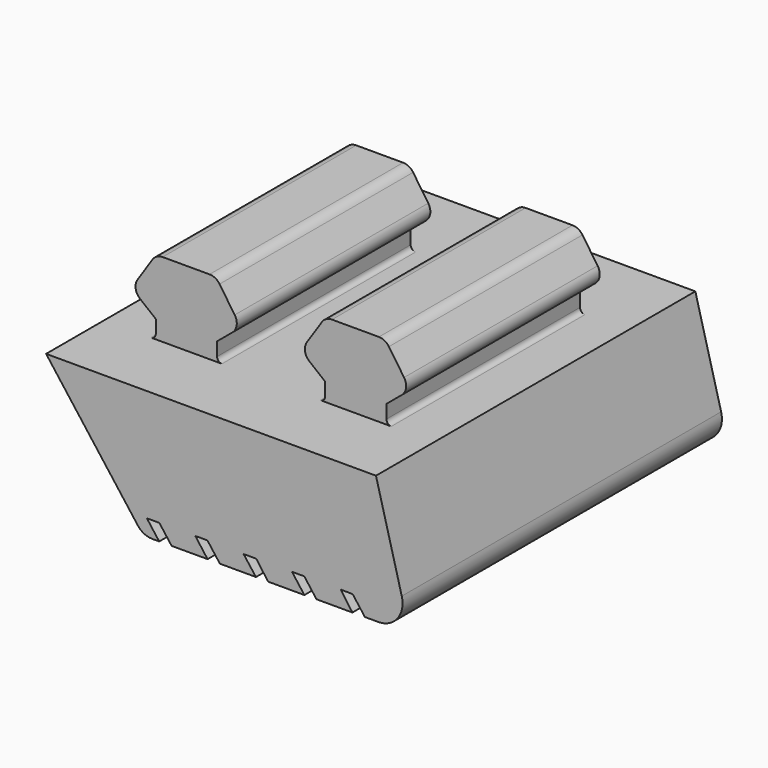
from build123d import *

# Parameters (mm, degrees)
PAD017_DEPTH = 20
PAD015_DEPTH = 33
PAD016_DEPTH = 20
FILLET010_R  = 1
FILLET011_R  = 0.4
FILLET012_R  = 1.5
FILLET013_R  = 2


with BuildPart() as pad017:
    # Sketch021 → Pad017 (new body)
    with BuildSketch(Plane(origin=(10, -7, 0.4), x_dir=(1, 0, 0), z_dir=(0, -1, 0))):
        Polygon((12.921668, -76.043343), (12.921668, -72.681298), (10.907037, -71.064545), (12.949577, -67.987406), (17.894252, -67.987406), (19.953335, -71.012405), (17.993304, -72.648705), (17.981073, -76.043343), align=None)
    extrude(amount=PAD017_DEPTH)


with BuildPart() as pad015:
    # Sketch019 → Pad015 (new body)
    with BuildSketch(Plane.XZ):
        Polygon((31.922119, -73.764191), (34.715668, -84.347412), (31.00419, -84.347412), (29.994871, -83.010223), (29.004835, -82.997353), (29.97435, -84.356453), (27.001257, -84.356453), (25.99424, -83.013763), (24.977634, -83.013763), (26.003832, -84.375633), (23.007538, -84.375633), (22.019703, -83.023636), (20.974325, -83.023636), (22.000523, -84.366325), (19.017838, -84.366325), (17.99164, -83.004456), (16.984625, -83.004456), (18.00123, -84.366325), (15.032244, -84.366325), (14.013124, -83.020378), (12.982291, -83.020378), (14.00141, -84.379204), (12.681671, -84.379204), (4.650895, -73.764191), align=None)
    extrude(amount=PAD015_DEPTH)


with BuildPart() as fillet013:
    # Sketch020 → Pad016 (new body)
    with BuildSketch(Plane(origin=(-4, -7, 0.4), x_dir=(1, 0, 0), z_dir=(0, -1, 0))):
        Polygon((12.921668, -76.043343), (12.921668, -72.681298), (10.907037, -71.064545), (12.949577, -67.987406), (17.894252, -67.987406), (19.953335, -71.012405), (17.993304, -72.648705), (17.981073, -76.043343), align=None)
    extrude(amount=PAD016_DEPTH)

    # Fusion002: union Pad015
    add(pad015.part)

    # Fusion003: union Pad017
    add(pad017.part)

    # Fillet010
    fillet010_edges = [fillet013.edges().sort_by_distance(p)[0] for p in [
        (20.907037, -17, -70.664545),
        (22.949577, -17, -67.587406),
        (27.894252, -17, -67.587406),
        (29.953335, -17, -70.612405),
        (15.953335, -17, -70.612405),
        (13.894252, -17, -67.587406),
        (8.949577, -17, -67.587406),
        (6.907037, -17, -70.664545),
    ]]
    fillet(fillet010_edges, radius=FILLET010_R)

    # Fillet011
    fillet011_edges = [fillet013.edges().sort_by_distance(p)[0] for p in [
        (22.921668, -17, -73.764191),
        (27.987844, -17, -73.764191),
        (8.921668, -17, -73.764191),
        (13.987844, -17, -73.764191),
    ]]
    fillet(fillet011_edges, radius=FILLET011_R)

    # Fillet012
    fillet012_edges = [fillet013.edges().sort_by_distance(p)[0] for p in [
        (12.681671, -16.5, -84.379204),
    ]]
    fillet(fillet012_edges, radius=FILLET012_R)

    # Fillet013
    fillet013_edges = [fillet013.edges().sort_by_distance(p)[0] for p in [
        (34.715668, -16.5, -84.347412),
    ]]
    fillet(fillet013_edges, radius=FILLET013_R)


solid = fillet013.part
